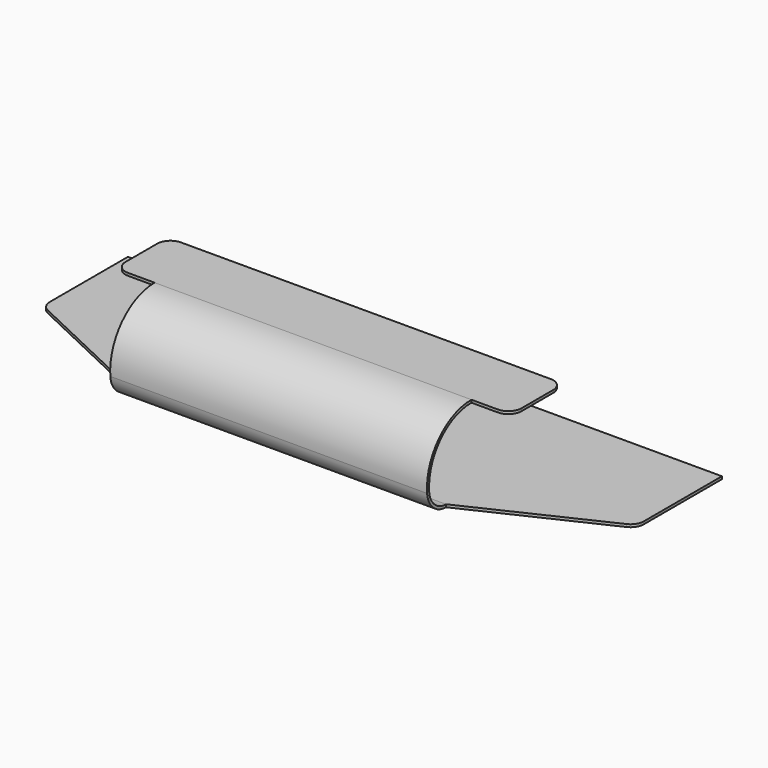
from build123d import *

# Parameters (mm, degrees)
PAD025_DEPTH = 6
PAD026_DEPTH = 0.1
PAD027_DEPTH = 0.1


with BuildPart() as part:
    # Sketch003 → Pad025 (new body, symmetric)
    with BuildSketch(Plane.YZ):
        with BuildLine():
            ThreePointArc((-11.5, 2.9), (-12.972433, 2.255323), (-13.497444, 0.736102))
            ThreePointArc((-13.497444, 0.736102), (-13.242624, 0.212157), (-12.7, 0))
            Line((-12.7, 0), (-12.7, -0.1))
            ThreePointArc((-13.597125, 0.728115), (-13.310452, 0.138677), (-12.7, -0.1))
            ThreePointArc((-11.5, 3), (-13.045913, 2.323151), (-13.597125, 0.728115))
            Line((-11.5, 2.9), (-11.5, 3))
        make_face()
    extrude(amount=PAD025_DEPTH, both=True)

    # Sketch004 → Pad026 (join)
    with BuildSketch(Plane.XY.offset(2.9)):
        with BuildLine():
            Line((-7.5, -9.5), (-7.5, -11))
            ThreePointArc((-7.5, -11), (-7.353553, -11.353553), (-7, -11.5))
            Line((-7, -11.5), (7, -11.5))
            ThreePointArc((7, -11.5), (7.353553, -11.353553), (7.5, -11))
            Line((7.5, -11), (7.5, -9.5))
            ThreePointArc((7.5, -9.5), (7.353553, -9.146447), (7, -9))
            Line((7, -9), (-7, -9))
            ThreePointArc((-7, -9), (-7.353553, -9.146447), (-7.5, -9.5))
        make_face()
    extrude(amount=PAD026_DEPTH)

    # Sketch063 → Pad027 (join)
    with BuildSketch(Plane.XY):
        with BuildLine():
            Line((-6, -12.7), (6, -12.7))
            Line((6, -12.7), (10.963801, -10.351984))
            ThreePointArc((10.963801, -10.351984), (11.172434, -10.167488), (11.25, -9.9))
            Line((11.25, -9.9), (11.25, -6.2))
            Line((11.25, -6.2), (-11.25, -6.2))
            Line((-11.25, -6.2), (-11.25, -9.9))
            ThreePointArc((-11.25, -9.9), (-11.172434, -10.167488), (-10.963801, -10.351984))
            Line((-10.963801, -10.351984), (-6, -12.7))
        make_face()
    extrude(amount=-PAD027_DEPTH)


solid = part.part
